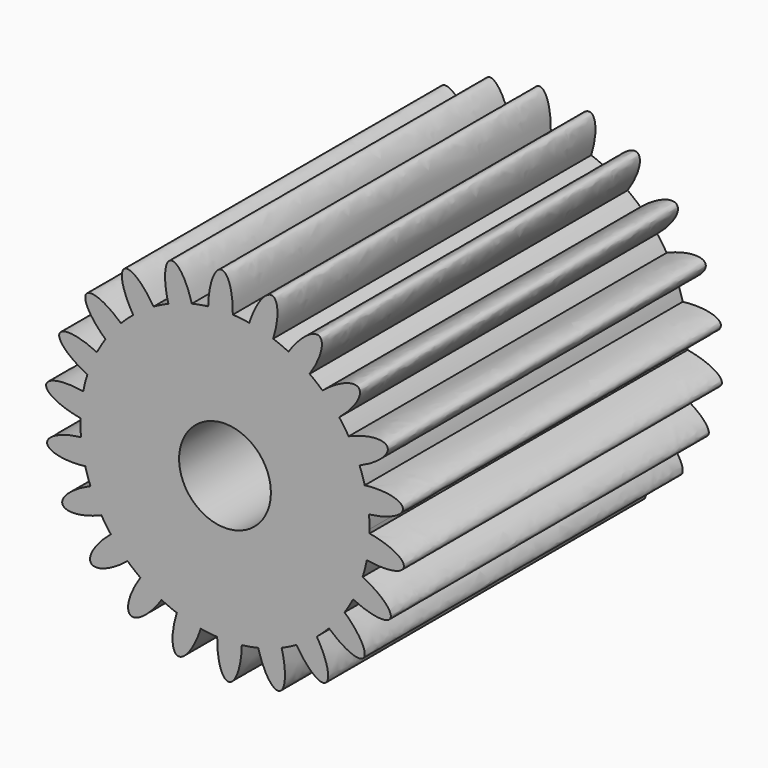
from build123d import *

# Parameters (mm, degrees)
F1_DEPTH = 21.9964


with BuildPart() as f1:
    # F0 (on Front) → F1 (new body)
    with BuildSketch(Plane.XZ):
        with BuildLine():
            ThreePointArc((8.0183863865, -0.6328692057), (8.0204810213, -0.5271921119), (8.0211792735, -0.4214965675))
            ThreePointArc((8.0211792735, -0.4214965675), (8.0132975328, -0.0664673711), (7.989667841, 0.2878622632))
            ThreePointArc((7.989667841, 0.2878622632), (7.9004074221, 0.9633369179), (7.7539938608, 1.6287664789))
            ThreePointArc((7.7539938608, 1.6287664789), (7.623125887, 2.0705723895), (7.4670385872, 2.5041109046))
            ThreePointArc((7.4670385872, 2.5041109046), (7.191090641, 3.1270765236), (6.863134686, 3.7243020448))
            ThreePointArc((6.863134686, 3.7243020448), (6.6130966758, 4.1113419429), (6.3411900941, 4.4833442279))
            ThreePointArc((6.3411900941, 4.4833442279), (5.9009102819, 5.0033318417), (5.4179809744, 5.4839696632))
            ThreePointArc((5.4179809744, 5.4839696632), (5.0690295204, 5.784887878), (4.7033319109, 6.0652165201))
            ThreePointArc((4.7033319109, 6.0652165201), (4.1343890847, 6.4400998247), (3.535610485, 6.7652115287))
            ThreePointArc((3.535610485, 6.7652115287), (3.1160155587, 6.9556294561), (2.6861535668, 7.1215738959))
            ThreePointArc((2.6861535668, 7.1215738959), (2.0346400908, 7.3209820755), (1.36852168, 7.4642290453))
            ThreePointArc((1.36852168, 7.4642290453), (0.9122763669, 7.5287201572), (0.4530748547, 7.5668365632))
            ThreePointArc((0.4530748547, 7.5668365632), (0.2857625969, 7.5741269645), (0.1183343915, 7.577913466))
            Line((0.1183343915, 7.577913466), (0.0520260235, 2.1183161181))
            ThreePointArc((0.0520260235, 2.1183161181), (1.8281035587, 1.3636153695), (2.5611792735, -0.4214965675))
            ThreePointArc((2.5611792735, -0.4214965675), (-1.6401165988, -2.3428752456), (-0.34566799, 2.0918723042))
            Line((-0.34566799, 2.0918723042), (-1.1342451785, 7.4946258631))
            ThreePointArc((-1.1342451785, 7.4946258631), (-1.4760243094, 7.4371535349), (-1.8149934688, 7.3649319887))
            ThreePointArc((-1.8149934688, 7.3649319887), (-2.4708896835, 7.180450046), (-3.1087093086, 6.9408262632))
            ThreePointArc((-3.1087093086, 6.9408262632), (-3.5273938176, 6.7484148), (-3.9343059969, 6.5322172802))
            ThreePointArc((-3.9343059969, 6.5322172802), (-4.5116592368, 6.1704208348), (-5.0561328646, 5.7608089451))
            ThreePointArc((-5.0561328646, 5.7608089451), (-5.4036491356, 5.4582344409), (-5.7331686325, 5.1361540311))
            ThreePointArc((-5.7331686325, 5.1361540311), (-6.1852051719, 4.6263536794), (-6.5922227871, 4.0799380021))
            ThreePointArc((-6.5922227871, 4.0799380021), (-6.8404171187, 3.6917132437), (-7.0658482232, 3.2898429831))
            ThreePointArc((-7.0658482232, 3.2898429831), (-7.3559467501, 2.6733397177), (-7.5925342061, 2.0343876012))
            ThreePointArc((-7.5925342061, 2.0343876012), (-7.7212993695, 1.5919642497), (-7.8243789943, 1.142861277))
            ThreePointArc((-7.8243789943, 1.142861277), (-7.9290374512, 0.4696005259), (-7.9760278395, -0.2101239293))
            ThreePointArc((-7.9760278395, -0.2101239293), (-7.9749320469, -0.6709033651), (-7.9473092939, -1.1308553982))
            ThreePointArc((-7.9473092939, -1.1308553982), (-7.8580488751, -1.8063300529), (-7.7116353137, -2.4717596139))
            ThreePointArc((-7.7116353137, -2.4717596139), (-7.5807673399, -2.9135655245), (-7.4246800402, -3.3471040396))
            ThreePointArc((-7.4246800402, -3.3471040396), (-7.1487320939, -3.9700696586), (-6.8207761389, -4.5672951798))
            ThreePointArc((-6.8207761389, -4.5672951798), (-6.5707381288, -4.9543350779), (-6.2988315471, -5.3263373628))
            ThreePointArc((-6.2988315471, -5.3263373628), (-5.8585517349, -5.8463249766), (-5.3756224273, -6.3269627982))
            ThreePointArc((-5.3756224273, -6.3269627982), (-5.0266709734, -6.627881013), (-4.6609733638, -6.9082096551))
            ThreePointArc((-4.6609733638, -6.9082096551), (-4.0920305376, -7.2830929597), (-3.4932519379, -7.6082046637))
            ThreePointArc((-3.4932519379, -7.6082046637), (-3.0736570117, -7.7986225911), (-2.6437950197, -7.9645670309))
            ThreePointArc((-2.6437950197, -7.9645670309), (-1.9922815437, -8.1639752105), (-1.3261631329, -8.3072221803))
            ThreePointArc((-1.3261631329, -8.3072221803), (-0.8699178198, -8.3717132922), (-0.4107163076, -8.4098296982))
            ThreePointArc((-0.4107163076, -8.4098296982), (0.2705860711, -8.417607888), (0.9500793409, -8.3673851059))
            ThreePointArc((0.9500793409, -8.3673851059), (1.4060127589, -8.3007247161), (1.8573520159, -8.2079251236))
            ThreePointArc((1.8573520159, -8.2079251236), (2.5132482305, -8.0234431809), (3.1510678557, -7.7838193982))
            ThreePointArc((3.1510678557, -7.7838193982), (3.5697523646, -7.5914079349), (3.976664544, -7.3752104152))
            ThreePointArc((3.976664544, -7.3752104152), (4.5540177839, -7.0134139698), (5.0984914117, -6.6038020801))
            ThreePointArc((5.0984914117, -6.6038020801), (5.4460076827, -6.3012275759), (5.7755271796, -5.9791471661))
            ThreePointArc((5.7755271796, -5.9791471661), (6.227563719, -5.4693468144), (6.6345813342, -4.922931137))
            ThreePointArc((6.6345813342, -4.922931137), (6.8827756657, -4.5347063787), (7.1082067703, -4.1328361181))
            ThreePointArc((7.1082067703, -4.1328361181), (7.3983052971, -3.5163328527), (7.6348927532, -2.8773807362))
            ThreePointArc((7.6348927532, -2.8773807362), (7.7636579165, -2.4349573847), (7.8667375414, -1.9858544119))
            ThreePointArc((7.8667375414, -1.9858544119), (7.9713959983, -1.3125936609), (8.0183863865, -0.6328692057))
        make_face()
        with BuildLine():
            ThreePointArc((7.7539938608, 1.6287664789), (7.9004074221, 0.9633369179), (7.989667841, 0.2878622632))
            add(Edge.make_bspline(
                [(7.989667841, 0.2878622632), (9.9822030575, 0.5205548368), (9.8626079742, 1.2010098929), (9.7430128909, 1.8814649489), (7.7539938608, 1.6287664789)],
                knots=[1.5766588322, 1.5766588322, 1.5766588322, 3.162156069, 3.162156069, 4.7476533058, 4.7476533058, 4.7476533058], degree=2, weights=[1, 0.7018901693, 1, 0.7018901693, 1]))
        make_face()
        with BuildLine():
            add(Edge.make_bspline(
                [(7.8667375414, -1.9858544119), (9.8441181551, -2.3239495637), (9.9210738557, -1.63736389), (9.9980295563, -0.9507782162), (8.0183863865, -0.6328692057)],
                knots=[1.5766588322, 1.5766588322, 1.5766588322, 3.162156069, 3.162156069, 4.7476533058, 4.7476533058, 4.7476533058], degree=2, weights=[1, 0.7018901693, 1, 0.7018901693, 1]))
            ThreePointArc((8.0183863865, -0.6328692057), (7.9713959983, -1.3125936609), (7.8667375414, -1.9858544119))
        make_face()
        with BuildLine():
            ThreePointArc((6.863134686, 3.7243020448), (7.191090641, 3.1270765236), (7.4670385872, 2.5041109046))
            add(Edge.make_bspline(
                [(7.4670385872, 2.5041109046), (9.3133050535, 3.2887398351), (9.0068480686, 3.9079378517), (8.7003910837, 4.5271358682), (6.863134686, 3.7243020448)],
                knots=[1.5766588322, 1.5766588322, 1.5766588322, 3.162156069, 3.162156069, 4.7476533058, 4.7476533058, 4.7476533058], degree=2, weights=[1, 0.7018901693, 1, 0.7018901693, 1]))
        make_face()
        with BuildLine():
            add(Edge.make_bspline(
                [(7.1082067703, -4.1328361181), (8.9102371637, -5.0143285368), (9.1775091551, -4.3772353333), (9.4447811465, -3.7401421299), (7.6348927532, -2.8773807362)],
                knots=[1.5766588322, 1.5766588322, 1.5766588322, 3.162156069, 3.162156069, 4.7476533058, 4.7476533058, 4.7476533058], degree=2, weights=[1, 0.7018901693, 1, 0.7018901693, 1]))
            ThreePointArc((7.6348927532, -2.8773807362), (7.3983052971, -3.5163328527), (7.1082067703, -4.1328361181))
        make_face()
        with BuildLine():
            ThreePointArc((5.4179809744, 5.4839696632), (5.9009102819, 5.0033318417), (6.3411900941, 4.4833442279))
            add(Edge.make_bspline(
                [(6.3411900941, 4.4833442279), (7.8916142811, 5.7563435457), (7.423122717, 6.264120782), (6.9546311529, 6.7718980182), (5.4179809744, 5.4839696632)],
                knots=[1.5766588322, 1.5766588322, 1.5766588322, 3.162156069, 3.162156069, 4.7476533058, 4.7476533058, 4.7476533058], degree=2, weights=[1, 0.7018901693, 1, 0.7018901693, 1]))
        make_face()
        with BuildLine():
            add(Edge.make_bspline(
                [(5.7755271796, -5.9791471661), (7.2562175673, -7.3326235784), (7.6921530623, -6.7966363476), (8.1280885573, -6.2606491168), (6.6345813342, -4.922931137)],
                knots=[1.5766588322, 1.5766588322, 1.5766588322, 3.162156069, 3.162156069, 4.7476533058, 4.7476533058, 4.7476533058], degree=2, weights=[1, 0.7018901693, 1, 0.7018901693, 1]))
            ThreePointArc((6.6345813342, -4.922931137), (6.227563719, -5.4693468144), (5.7755271796, -5.9791471661))
        make_face()
        with BuildLine():
            ThreePointArc((3.535610485, 6.7652115287), (4.1343890847, 6.4400998247), (4.7033319109, 6.0652165201))
            add(Edge.make_bspline(
                [(4.7033319109, 6.0652165201), (5.8323076718, 7.7234553914), (5.2397359287, 8.0786747555), (4.6471641857, 8.4338941196), (3.535610485, 6.7652115287)],
                knots=[1.5766588322, 1.5766588322, 1.5766588322, 3.162156069, 3.162156069, 4.7476533058, 4.7476533058, 4.7476533058], degree=2, weights=[1, 0.7018901693, 1, 0.7018901693, 1]))
        make_face()
        with BuildLine():
            add(Edge.make_bspline(
                [(3.976664544, -7.3752104152), (5.0160581968, -9.0910202115), (5.5853402942, -8.6995614513), (6.1546223915, -8.308102691), (5.0984914117, -6.6038020801)],
                knots=[1.5766588322, 1.5766588322, 1.5766588322, 3.162156069, 3.162156069, 4.7476533058, 4.7476533058, 4.7476533058], degree=2, weights=[1, 0.7018901693, 1, 0.7018901693, 1]))
            ThreePointArc((5.0984914117, -6.6038020801), (4.5540177839, -7.0134139698), (3.976664544, -7.3752104152))
        make_face()
        with BuildLine():
            ThreePointArc((1.36852168, 7.4642290453), (2.0346400908, 7.3209820755), (2.6861535668, 7.1215738959))
            add(Edge.make_bspline(
                [(2.6861535668, 7.1215738959), (3.3022179997, 9.0307116693), (2.6335727162, 9.204595401), (1.9649274327, 9.3784791326), (1.36852168, 7.4642290453)],
                knots=[1.5766588322, 1.5766588322, 1.5766588322, 3.162156069, 3.162156069, 4.7476533058, 4.7476533058, 4.7476533058], degree=2, weights=[1, 0.7018901693, 1, 0.7018901693, 1]))
        make_face()
        with BuildLine():
            add(Edge.make_bspline(
                [(1.8573520159, -8.2079251236), (2.3712434417, -10.1470635987), (3.0277522915, -9.9318469696), (3.6842611413, -9.7166303406), (3.1510678557, -7.7838193982)],
                knots=[1.5766588322, 1.5766588322, 1.5766588322, 3.162156069, 3.162156069, 4.7476533058, 4.7476533058, 4.7476533058], degree=2, weights=[1, 0.7018901693, 1, 0.7018901693, 1]))
            ThreePointArc((3.1510678557, -7.7838193982), (2.5132482305, -8.0234431809), (1.8573520159, -8.2079251236))
        make_face()
        with BuildLine():
            ThreePointArc((0.1183343915, 7.577913466), (0.2857625969, 7.5741269645), (0.4530748547, 7.5668365632))
            add(Edge.make_bspline(
                [(0.4530748547, 7.5668365632), (0.5063180831, 9.5722062502), (-0.1842310766, 9.5506673237), (-0.8747802363, 9.5291283971), (-0.9077207939, 7.5243919709)],
                knots=[1.5766588322, 1.5766588322, 1.5766588322, 3.162156069, 3.162156069, 4.7476533058, 4.7476533058, 4.7476533058], degree=2, weights=[1, 0.7018901693, 1, 0.7018901693, 1]))
            ThreePointArc((-0.9077207939, 7.5243919709), (-0.395553318, 7.5676419309), (0.1183343915, 7.577913466))
        make_face()
        with BuildLine():
            add(Edge.make_bspline(
                [(-0.4107163076, -8.4098296982), (-0.463959536, -10.4151993852), (0.2265896236, -10.3936604586), (0.9171387833, -10.3721215321), (0.9500793409, -8.3673851059)],
                knots=[1.5766588322, 1.5766588322, 1.5766588322, 3.162156069, 3.162156069, 4.7476533058, 4.7476533058, 4.7476533058], degree=2, weights=[1, 0.7018901693, 1, 0.7018901693, 1]))
            ThreePointArc((0.9500793409, -8.3673851059), (0.2705860711, -8.417607888), (-0.4107163076, -8.4098296982))
        make_face()
        with BuildLine():
            Line((0.0520260235, 2.1183161181), (0.1183343915, 7.577913466))
            ThreePointArc((0.1183343915, 7.577913466), (-0.395553318, 7.5676419309), (-0.9077207939, 7.5243919709))
            ThreePointArc((-0.9077207939, 7.5243919709), (-1.0210892527, 7.5103176209), (-1.1342451785, 7.4946258631))
            Line((-1.1342451785, 7.4946258631), (-0.34566799, 2.0918723042))
            ThreePointArc((-0.34566799, 2.0918723042), (-0.1473404734, 2.1129069313), (0.0520260235, 2.1183161181))
        make_face()
        with BuildLine():
            add(Edge.make_bspline(
                [(-2.6437950197, -7.9645670309), (-3.2598594526, -9.8737048042), (-2.5912141691, -10.0475885359), (-1.9225688856, -10.2214722676), (-1.3261631329, -8.3072221803)],
                knots=[1.5766588322, 1.5766588322, 1.5766588322, 3.162156069, 3.162156069, 4.7476533058, 4.7476533058, 4.7476533058], degree=2, weights=[1, 0.7018901693, 1, 0.7018901693, 1]))
            ThreePointArc((-1.3261631329, -8.3072221803), (-1.9922815437, -8.1639752105), (-2.6437950197, -7.9645670309))
        make_face()
        with BuildLine():
            ThreePointArc((-3.1087093086, 6.9408262632), (-2.4708896835, 7.180450046), (-1.8149934688, 7.3649319887))
            add(Edge.make_bspline(
                [(-1.8149934688, 7.3649319887), (-2.3288848946, 9.3040704637), (-2.9853937444, 9.0888538347), (-3.6419025942, 8.8736372056), (-3.1087093086, 6.9408262632)],
                knots=[1.5766588322, 1.5766588322, 1.5766588322, 3.162156069, 3.162156069, 4.7476533058, 4.7476533058, 4.7476533058], degree=2, weights=[1, 0.7018901693, 1, 0.7018901693, 1]))
        make_face()
        with BuildLine():
            add(Edge.make_bspline(
                [(-4.6609733638, -6.9082096551), (-5.7899491247, -8.5664485264), (-5.1973773817, -8.9216678905), (-4.6048056386, -9.2768872546), (-3.4932519379, -7.6082046637)],
                knots=[1.5766588322, 1.5766588322, 1.5766588322, 3.162156069, 3.162156069, 4.7476533058, 4.7476533058, 4.7476533058], degree=2, weights=[1, 0.7018901693, 1, 0.7018901693, 1]))
            ThreePointArc((-3.4932519379, -7.6082046637), (-4.0920305376, -7.2830929597), (-4.6609733638, -6.9082096551))
        make_face()
        with BuildLine():
            ThreePointArc((-5.0561328646, 5.7608089451), (-4.5116592368, 6.1704208348), (-3.9343059969, 6.5322172802))
            add(Edge.make_bspline(
                [(-3.9343059969, 6.5322172802), (-4.9736996498, 8.2480270766), (-5.5429817471, 7.8565683163), (-6.1122638444, 7.4651095561), (-5.0561328646, 5.7608089451)],
                knots=[1.5766588322, 1.5766588322, 1.5766588322, 3.162156069, 3.162156069, 4.7476533058, 4.7476533058, 4.7476533058], degree=2, weights=[1, 0.7018901693, 1, 0.7018901693, 1]))
        make_face()
        with BuildLine():
            add(Edge.make_bspline(
                [(-6.2988315471, -5.3263373628), (-7.8492557341, -6.5993366807), (-7.38076417, -7.1071139169), (-6.9122726058, -7.6148911532), (-5.3756224273, -6.3269627982)],
                knots=[1.5766588322, 1.5766588322, 1.5766588322, 3.162156069, 3.162156069, 4.7476533058, 4.7476533058, 4.7476533058], degree=2, weights=[1, 0.7018901693, 1, 0.7018901693, 1]))
            ThreePointArc((-5.3756224273, -6.3269627982), (-5.8585517349, -5.8463249766), (-6.2988315471, -5.3263373628))
        make_face()
        with BuildLine():
            ThreePointArc((-6.5922227871, 4.0799380021), (-6.1852051719, 4.6263536794), (-5.7331686325, 5.1361540311))
            add(Edge.make_bspline(
                [(-5.7331686325, 5.1361540311), (-7.2138590203, 6.4896304434), (-7.6497945152, 5.9536432126), (-8.0857300102, 5.4176559819), (-6.5922227871, 4.0799380021)],
                knots=[1.5766588322, 1.5766588322, 1.5766588322, 3.162156069, 3.162156069, 4.7476533058, 4.7476533058, 4.7476533058], degree=2, weights=[1, 0.7018901693, 1, 0.7018901693, 1]))
        make_face()
        with BuildLine():
            add(Edge.make_bspline(
                [(-7.4246800402, -3.3471040396), (-9.2709465064, -4.1317329701), (-8.9644895215, -4.7509309866), (-8.6580325366, -5.3701290032), (-6.8207761389, -4.5672951798)],
                knots=[1.5766588322, 1.5766588322, 1.5766588322, 3.162156069, 3.162156069, 4.7476533058, 4.7476533058, 4.7476533058], degree=2, weights=[1, 0.7018901693, 1, 0.7018901693, 1]))
            ThreePointArc((-6.8207761389, -4.5672951798), (-7.1487320939, -3.9700696586), (-7.4246800402, -3.3471040396))
        make_face()
        with BuildLine():
            ThreePointArc((-7.5925342061, 2.0343876012), (-7.3559467501, 2.6733397177), (-7.0658482232, 3.2898429831))
            add(Edge.make_bspline(
                [(-7.0658482232, 3.2898429831), (-8.8678786167, 4.1713354018), (-9.1351506081, 3.5342421984), (-9.4024225995, 2.8971489949), (-7.5925342061, 2.0343876012)],
                knots=[1.5766588322, 1.5766588322, 1.5766588322, 3.162156069, 3.162156069, 4.7476533058, 4.7476533058, 4.7476533058], degree=2, weights=[1, 0.7018901693, 1, 0.7018901693, 1]))
        make_face()
        with BuildLine():
            add(Edge.make_bspline(
                [(-7.9473092939, -1.1308553982), (-9.9398445105, -1.3635479717), (-9.8202494271, -2.0440030278), (-9.7006543438, -2.7244580839), (-7.7116353137, -2.4717596139)],
                knots=[1.5766588322, 1.5766588322, 1.5766588322, 3.162156069, 3.162156069, 4.7476533058, 4.7476533058, 4.7476533058], degree=2, weights=[1, 0.7018901693, 1, 0.7018901693, 1]))
            ThreePointArc((-7.7116353137, -2.4717596139), (-7.8580488751, -1.8063300529), (-7.9473092939, -1.1308553982))
        make_face()
        with BuildLine():
            ThreePointArc((-7.9760278395, -0.2101239293), (-7.9290374512, 0.4696005259), (-7.8243789943, 1.142861277))
            add(Edge.make_bspline(
                [(-7.8243789943, 1.142861277), (-9.801759608, 1.4809564288), (-9.8787153087, 0.794370755), (-9.9556710093, 0.1077850812), (-7.9760278395, -0.2101239293)],
                knots=[1.5766588322, 1.5766588322, 1.5766588322, 3.162156069, 3.162156069, 4.7476533058, 4.7476533058, 4.7476533058], degree=2, weights=[1, 0.7018901693, 1, 0.7018901693, 1]))
        make_face()
    extrude(amount=F1_DEPTH)


solid = f1.part
